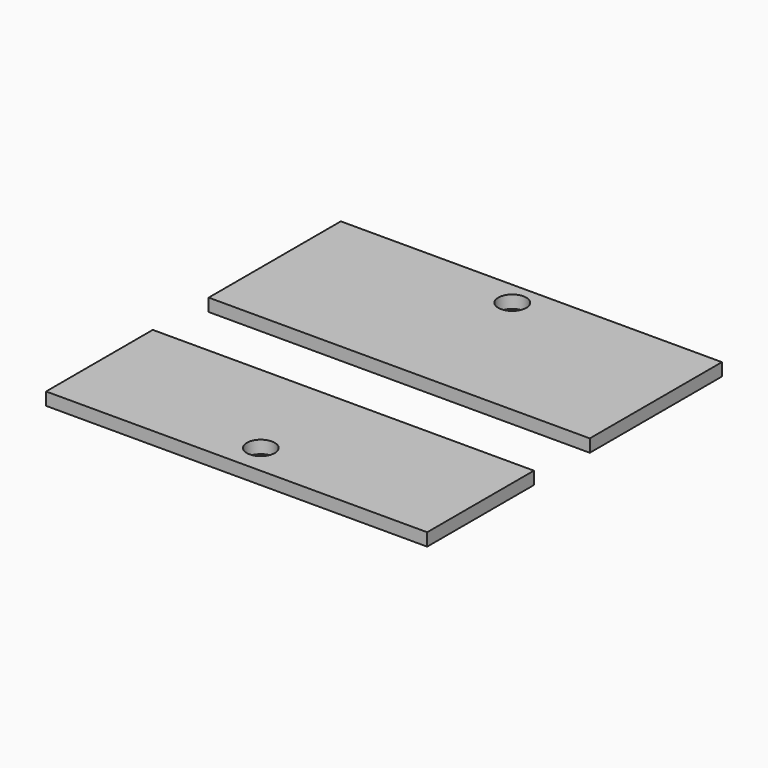
from build123d import *

# Parameters (mm, degrees)
F0_W             = 13.2466710359
F0_H             = 26
F0_W_2           = 16.7533289641
F0_W_3           = 30
F1_DEPTH         = 2
F0_W_4           = 13.0084685236
F0_H_2           = 21
F3_D             = 4.4
F3_CBORE_D       = 8.25
F3_CBORE_DEPTH   = 0
F3_2_D           = 4.4
F3_2_CBORE_D     = 8.25
F3_2_CBORE_DEPTH = 0


with BuildPart() as f1:
    # F0 (on Top) → F1 (new body)
    with BuildSketch(Plane.XY):
        with Locations((-23.3766644821, 16)):
            Rectangle(F0_W, F0_H)
        with Locations((-8.3766644821, 16)):
            Rectangle(F0_W_2, F0_H)
        with Locations((15, 16)):
            Rectangle(F0_W_3, F0_H)
    extrude(amount=F1_DEPTH)

    # F3 (through all)
    with Locations(Plane.XY.offset(2)):
        with Locations((0, 25.25), (0, -24.25)):
            CounterBoreHole(F3_D / 2, F3_CBORE_D / 2, F3_CBORE_DEPTH)


with BuildPart() as f1b:
    # F0 (on Top) → F1, piece 2 (new body)
    with BuildSketch(Plane.XY):
        Polygon((30, -8), (0, -8), (0, -20.5), (0, -29), (30, -29), align=None)
        with Locations((-23.4957657382, -18.5)):
            Rectangle(F0_W_4, F0_H_2)
        Polygon((0, -8), (-16.9915314764, -8), (-16.9915314764, -29), (0, -29), (0, -20.5), align=None)
    extrude(amount=F1_DEPTH)

    # F3#2 (through all)
    with Locations(Plane.XY.offset(2)):
        with Locations((0, 25.25), (0, -24.25)):
            CounterBoreHole(F3_2_D / 2, F3_2_CBORE_D / 2, F3_2_CBORE_DEPTH)


solid = Compound([f1.part, f1b.part])
